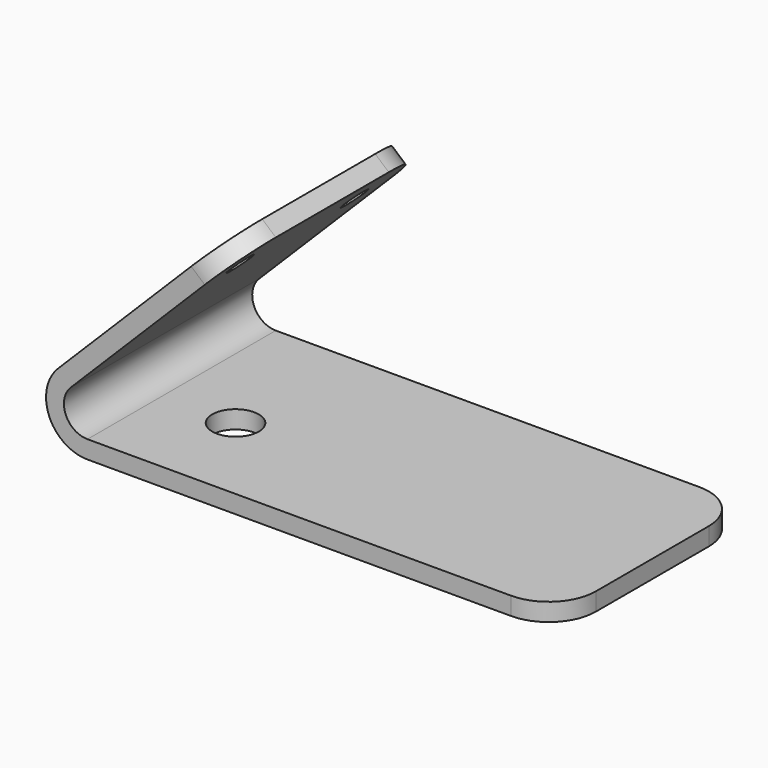
from build123d import *

# Parameters (mm, degrees)
F2_DEPTH = 25
F3_R     = 5
F4_R     = 1.401412
F5_DEPTH = 12.5
F6_R     = 2.473505
F7_DEPTH = 1.901001


with BuildPart() as f2:
    # F0 (on Front) → F2 (new body)
    with BuildSketch(Plane.XZ):
        with BuildLine():
            Line((-50, 0), (0, 0))
            Line((0, 0), (0, 1.900001))
            Line((0, 1.900001), (-50, 1.900001))
            ThreePointArc((-50, 1.900001), (-52.309698, 3.443292), (-51.767766, 6.167766))
            Line((-51.767766, 6.167766), (-33.996891, 23.938641))
            Line((-33.996891, 23.938641), (-35.4336, 25.188939))
            Line((-35.4336, 25.188939), (-53.11127, 7.51127))
            ThreePointArc((-53.11127, 7.51127), (-54.06507, 2.716193), (-50, 0))
        make_face()
    extrude(amount=F2_DEPTH)

    # F3
    f3_edges = [f2.edges().sort_by_distance(p)[0] for p in [
        (-34.715246, -25, 24.56379),
        (-34.715246, 0, 24.56379),
        (0, -25, 0.950001),
        (0, 0, 0.950001),
    ]]
    fillet(f3_edges, radius=F3_R)

    # F4 (on face) → F5 (cut, symmetric)
    with BuildSketch(Plane(origin=(-30.31127, 0, 30.31127), x_dir=(0, -1, 0), z_dir=(-0.707107, 0, 0.707107))):
        with Locations((5, -12.256087)):
            Circle(F4_R)
        with Locations((20.678569, -11.696595)):
            Circle(F4_R)
    extrude(amount=F5_DEPTH, both=True, mode=Mode.SUBTRACT)

    # F6 (on face) → F7 (cut, through all)
    with BuildSketch(Plane.XY.offset(1.900001)):
        with Locations((-42.235214, -15.046177)):
            Circle(F6_R)
    extrude(amount=-F7_DEPTH, mode=Mode.SUBTRACT)


solid = f2.part
